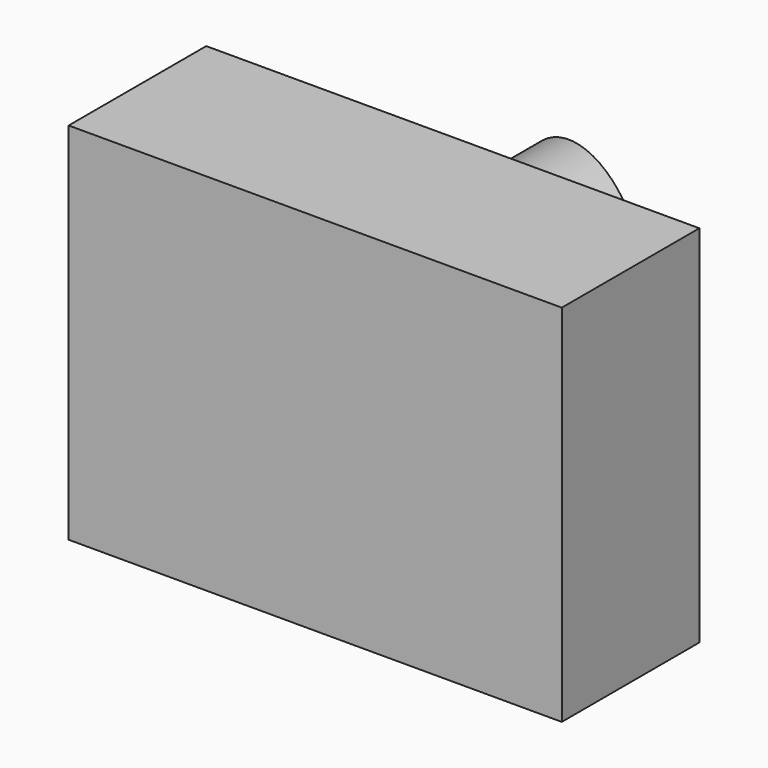
from build123d import *

# Parameters (mm, degrees)
F0_W     = 72.842926
F0_H     = 53.87415
F1_DEPTH = 25.4
F2_R     = 12.415196
F3_DEPTH = 25.4
F5_DEPTH = 40.132


with BuildPart() as f1:
    # F0 (on Front) → F1 (new body)
    with BuildSketch(Plane.XZ):
        with Locations((36.421463, -26.937075)):
            Rectangle(F0_W, F0_H)
        with Locations((36.421463, -26.937075)):
            Rectangle(F0_W, F0_H)
    extrude(amount=F1_DEPTH)

    # F2 (on face) → F3 (join)
    with BuildSketch(Plane(origin=(0, 0, 0), x_dir=(-1, 0, 0), z_dir=(0, 1, 0))):
        with Locations((-41.560825, -19.02597)):
            Circle(F2_R)
    extrude(amount=F3_DEPTH)

    # F4 (on Top) → F5 (cut)
    with BuildSketch(Plane.XY):
        Polygon((61.878242, 30.363508), (18.419566, 24.895199), (61.878242, 10.792716), align=None)
    extrude(amount=-F5_DEPTH, mode=Mode.SUBTRACT)


solid = f1.part
